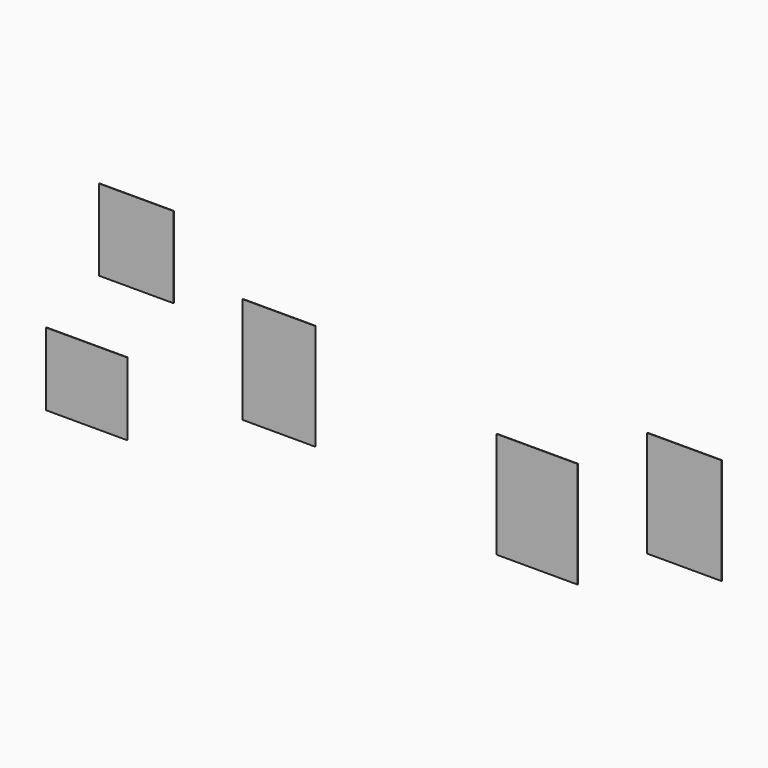
from build123d import *

# Parameters (mm, degrees)
F0_W      = 1219.2
F0_H      = 2438.4
F1_DEPTH  = 6.35
F2_W      = 1104.9
F2_H      = 1612.9
F3_DEPTH  = 6.35
F4_W      = 1231.9
F4_H      = 1612.9
F5_DEPTH  = 6.35
F6_W      = 1231.9
F6_H      = 1104.9
F7_DEPTH  = 6.35
F8_W      = 1130.3
F8_H      = 1231.9
F9_DEPTH  = 6.35
F10_W     = 1130.3
F10_H     = 1612.9
F11_DEPTH = 6.35


with BuildPart() as f1:
    # F0 (on Front) → F1 (new body)
    with BuildSketch(Plane.XZ):
        with Locations((9.893047, 686.749916)):
            Rectangle(F0_W, F0_H)
    extrude(amount=F1_DEPTH)


with BuildPart() as f3:
    # F2 (on Front) → F3 (new body)
    with BuildSketch(Plane.XZ):
        with Locations((-2095.109601, -34.684066)):
            Rectangle(F2_W, F2_H)
    extrude(amount=F3_DEPTH)


with BuildPart() as f5:
    # F4 (on Front) → F5 (new body)
    with BuildSketch(Plane.XZ):
        with Locations((1823.935289, -581.991924)):
            Rectangle(F4_W, F4_H)
    extrude(amount=F5_DEPTH)


with BuildPart() as f7:
    # F6 (on Front) → F7 (new body)
    with BuildSketch(Plane.XZ):
        with Locations((-5011.798177, -1129.798278)):
            Rectangle(F6_W, F6_H)
    extrude(amount=F7_DEPTH)


with BuildPart() as f9:
    # F8 (on Front) → F9 (new body)
    with BuildSketch(Plane.XZ):
        with Locations((-4258.993506, 991.957669)):
            Rectangle(F8_W, F8_H)
    extrude(amount=F9_DEPTH)


with BuildPart() as f11:
    # F10 (on Front) → F11 (new body)
    with BuildSketch(Plane.XZ):
        with Locations((4057.612896, 175.406297)):
            Rectangle(F10_W, F10_H)
    extrude(amount=F11_DEPTH)


solid = Compound([f3.part, f5.part, f7.part, f9.part, f11.part])
